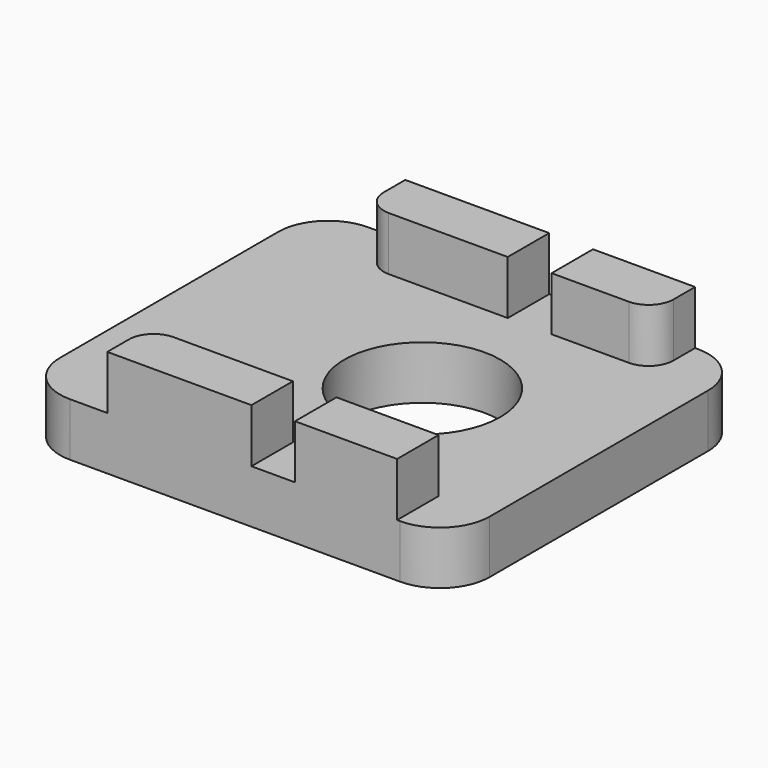
from build123d import *

# Parameters (mm, degrees)
F0_R     = 3.9751
F1_DEPTH = 2.7178
F2_W     = 5.207
F2_H     = 2.6416
F3_DEPTH = 2.7432


with BuildPart() as f1:
    # F0 (on Top) → F1 (new body)
    with BuildSketch(Plane.XY):
        with BuildLine():
            Line((8.4201, 9.4996), (-8.4201, 9.4996))
            ThreePointArc((-8.4201, 9.4996), (-10.216151, 8.755651), (-10.9601, 6.9596))
            Line((-10.9601, 6.9596), (-10.9601, -6.9596))
            ThreePointArc((-10.9601, -6.9596), (-10.216151, -8.755651), (-8.4201, -9.4996))
            Line((-8.4201, -9.4996), (8.4201, -9.4996))
            ThreePointArc((8.4201, -9.4996), (10.216151, -8.755651), (10.9601, -6.9596))
            Line((10.9601, -6.9596), (10.9601, 6.9596))
            ThreePointArc((10.9601, 6.9596), (10.216151, 8.755651), (8.4201, 9.4996))
        make_face()
        with Locations((1.9558, 0)):
            Circle(F0_R, mode=Mode.SUBTRACT)
    extrude(amount=F1_DEPTH)

    # F2 (on face) → F3 (join)
    with BuildSketch(Plane.XY.offset(2.7178)):
        with BuildLine():
            Line((0.8255, 9.4996), (-6.5151, 9.4996))
            Line((-6.5151, 9.4996), (-6.5151, 8.128))
            ThreePointArc((-6.5151, 8.128), (-6.143126, 7.229974), (-5.2451, 6.858))
            Line((-5.2451, 6.858), (0.8255, 6.858))
            Line((0.8255, 6.858), (0.8255, 9.4996))
        make_face()
        with BuildLine():
            Line((8.2677, 9.4996), (3.0607, 9.4996))
            Line((3.0607, 9.4996), (3.0607, 6.858))
            Line((3.0607, 6.858), (6.9977, 6.858))
            ThreePointArc((6.9977, 6.858), (7.895726, 7.229974), (8.2677, 8.128))
            Line((8.2677, 8.128), (8.2677, 9.4996))
        make_face()
        with BuildLine():
            Line((-6.5151, -8.128), (-6.5151, -9.4996))
            Line((-6.5151, -9.4996), (0.8382, -9.4996))
            Line((0.8382, -9.4996), (0.8382, -6.858))
            Line((0.8382, -6.858), (-5.2451, -6.858))
            ThreePointArc((-5.2451, -6.858), (-6.143126, -7.229974), (-6.5151, -8.128))
        make_face()
        with Locations((5.6642, -8.1788)):
            Rectangle(F2_W, F2_H)
    extrude(amount=F3_DEPTH)


solid = f1.part
